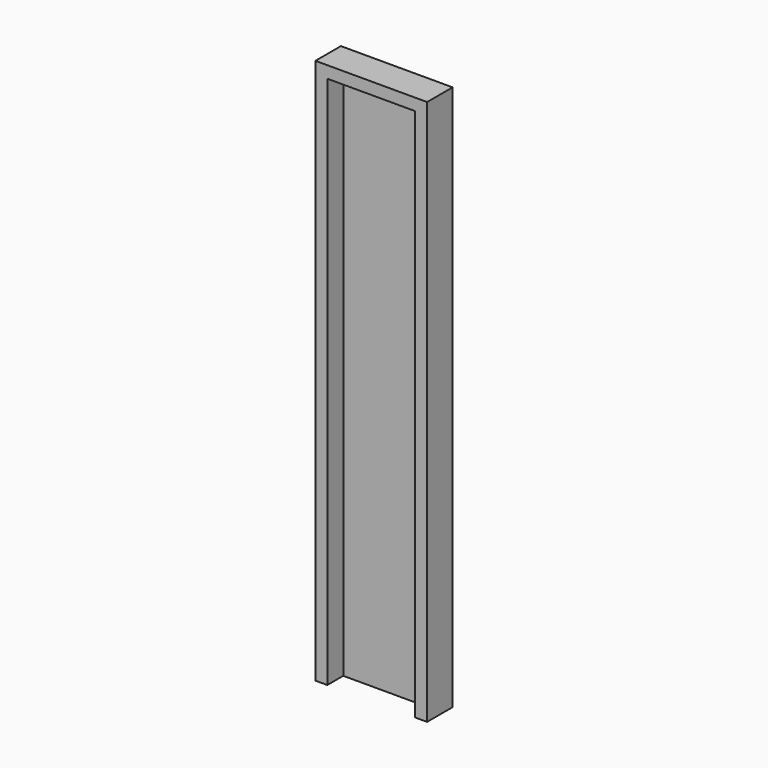
from build123d import *

# Parameters (mm, degrees)
F0_W      = 23.49
F0_H      = 117.79
F1_DEPTH  = 6.7
F2_T      = -2.5
F1_FACE_W = 23.49
F1_FACE_H = 6.7
F3_DEPTH  = 3


with BuildPart() as f1:
    # F0 (on Front) → F1 (new body)
    with BuildSketch(Plane.XZ):
        Rectangle(F0_W, F0_H)
    extrude(amount=-F1_DEPTH)

    # F2
    f2_openings = [f1.faces().sort_by_distance(p)[0] for p in [
        (0, 0, 0),
    ]]
    offset(amount=F2_T, openings=f2_openings)

    # F1_face (on face) → F3 (cut)
    with BuildSketch(Plane(origin=(0, 3.35, -58.895), x_dir=(1, 0, 0), z_dir=(0, 0, -1))):
        Rectangle(F1_FACE_W, F1_FACE_H)
    extrude(amount=-F3_DEPTH, mode=Mode.SUBTRACT)


solid = f1.part
